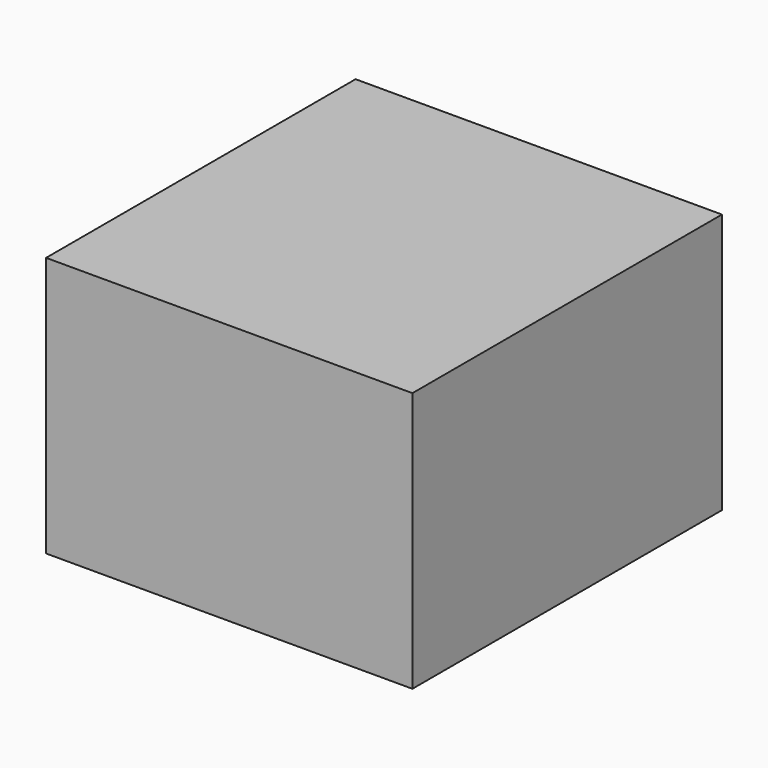
from build123d import *

# Parameters (mm, degrees)
F0_W     = 96.209295
F0_H     = 68.355314
F0_R     = 28.43981
F1_DEPTH = 101.6


with BuildPart() as f1:
    # F0 (on Front) → F1 (new body)
    with BuildSketch(Plane.XZ):
        with Locations((-48.104647, -34.177657)):
            Rectangle(F0_W, F0_H)
        with Locations((-51.343542, -31.98836)):
            Circle(F0_R, mode=Mode.SUBTRACT)
        with Locations((-51.343542, -31.98836)):
            Circle(F0_R)
    extrude(amount=-F1_DEPTH)


solid = f1.part
